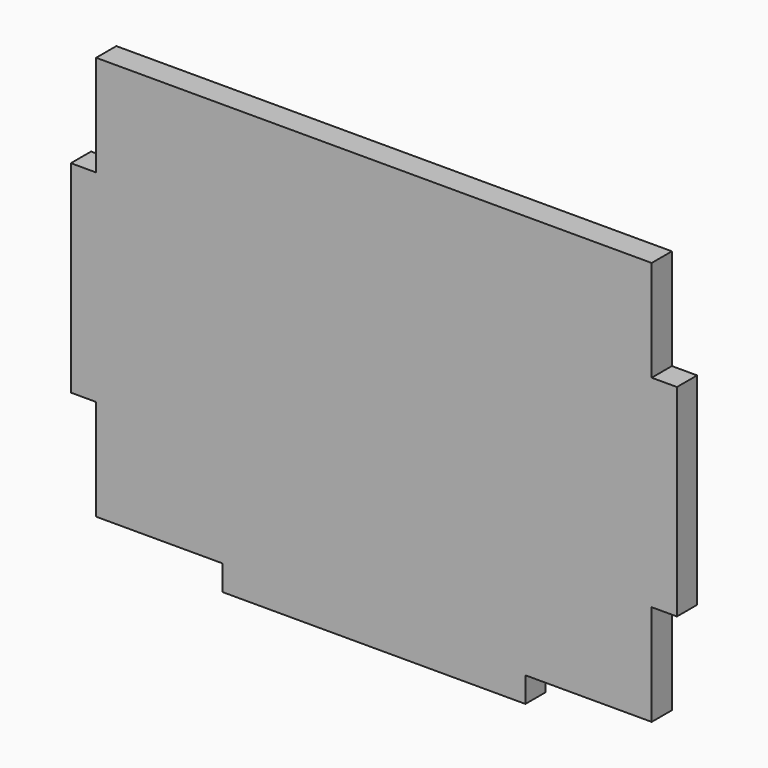
from build123d import *

# Parameters (mm, degrees)
F0_W     = 139.7
F0_H     = 101.6
F1_DEPTH = 6.35
F2_W     = 76.2
F2_H     = 6.35
F3_DEPTH = 6.35
F4_W     = 6.35
F4_H     = 50.8
F5_DEPTH = 6.35


with BuildPart() as f1:
    # F0 (on Front) → F1 (new body)
    with BuildSketch(Plane.XZ):
        with Locations((0, 50.8)):
            Rectangle(F0_W, F0_H)
    extrude(amount=F1_DEPTH)

    # F2 (on face) → F3 (join)
    with BuildSketch(Plane.XZ.offset(6.35)):
        with Locations((0, -3.175)):
            Rectangle(F2_W, F2_H)
    extrude(amount=-F3_DEPTH)

    # F4 (on face) → F5 (join)
    with BuildSketch(Plane.XZ.offset(6.35)):
        with Locations((-73.025, 50.8)):
            Rectangle(F4_W, F4_H)
        with Locations((73.025, 50.8)):
            Rectangle(F4_W, F4_H)
    extrude(amount=-F5_DEPTH)


solid = f1.part
